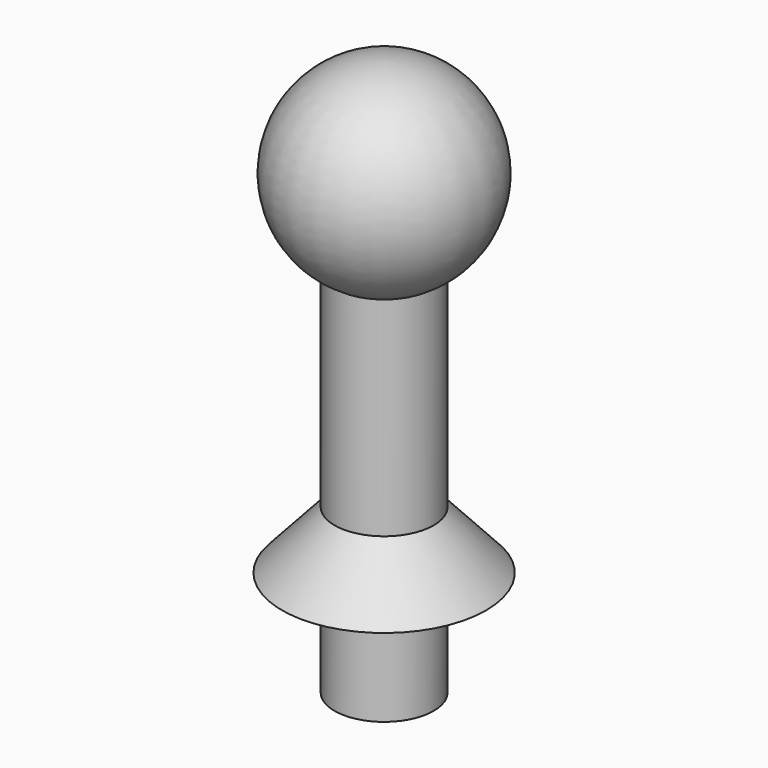
from build123d import *


with BuildPart() as f1:
    # F0 (on Front) → F1 (revolve)
    with BuildSketch(Plane.XZ):
        with BuildLine():
            Line((0, 45.895934), (0, -38.472079))
            Line((0, -38.472079), (11.671398, -38.472079))
            Line((11.671398, -38.472079), (11.671398, -13.600893))
            Line((11.671398, -13.600893), (24.034686, -13.600893))
            Line((24.034686, -13.600893), (11.671398, 0))
            Line((11.671398, 0), (11.671398, 49.081677))
            ThreePointArc((11.671398, 49.081677), (6.045406, 46.720517), (0, 45.895934))
        make_face()
        with BuildLine():
            Line((0, 92.639647), (0, 45.895934))
            ThreePointArc((0, 45.895934), (6.045406, 46.720517), (11.671398, 49.081677))
            ThreePointArc((11.671398, 49.081677), (22.466775, 75.316974), (0, 92.639647))
        make_face()
        with BuildLine():
            Line((0, 92.639647), (0, 45.895934))
            ThreePointArc((0, 45.895934), (6.045406, 46.720517), (11.671398, 49.081677))
            ThreePointArc((11.671398, 49.081677), (22.466775, 75.316974), (0, 92.639647))
        make_face()
    revolve(axis=Axis((0, 0, 0.355165), (0, 0, 1)))


solid = f1.part
